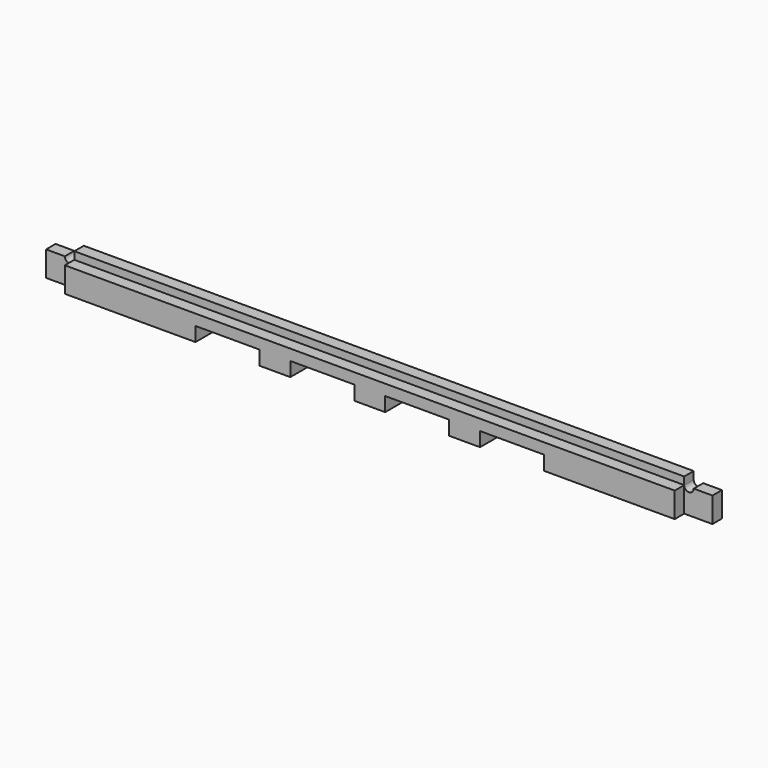
from build123d import *

# Parameters (mm, degrees)
F1_DEPTH = 5
F0_W     = 128.6
F0_H     = 1.6
F2_DEPTH = 2.5
F3_W     = 2
F3_H     = 2
F4_DEPTH = 2
F5_W     = 2
F5_H     = 2
F6_DEPTH = 2


with BuildPart() as f1:
    # F0 (on Front) → F1 (new body)
    with BuildSketch(Plane.XZ):
        Polygon((64.3, 0.177778), (64.3, 5.477778), (-64.3, 5.477778), (-64.3, 0.177778), (-36.75, 0.177778), (-36.75, 3.177778), (-23.25, 3.177778), (-23.25, 0.177778), (-16.75, 0.177778), (-16.75, 3.177778), (-3.25, 3.177778), (-3.25, 0.177778), (3.25, 0.177778), (3.25, 3.177778), (16.75, 3.177778), (16.75, 0.177778), (23.25, 0.177778), (23.25, 3.177778), (36.75, 3.177778), (36.75, 0.177778), align=None)
    extrude(amount=F1_DEPTH)

    # F0 (on Front) → F2 (join)
    with BuildSketch(Plane.XZ):
        with BuildLine():
            Line((-64.3, 0.177778), (-64.3, 5.477778))
            ThreePointArc((-64.3, 5.477778), (-65.3, 4.477778), (-66.3, 5.477778))
            Line((-66.3, 5.477778), (-70.25, 5.477778))
            Line((-70.25, 5.477778), (-70.25, 0.177778))
            Line((-70.25, 0.177778), (-64.3, 0.177778))
        make_face()
        with Locations((0, 6.277778)):
            Rectangle(F0_W, F0_H)
        with BuildLine():
            ThreePointArc((66.3, 5.477778), (65.3, 4.477778), (64.3, 5.477778))
            Line((64.3, 5.477778), (64.3, 0.177778))
            Line((64.3, 0.177778), (70.25, 0.177778))
            Line((70.25, 0.177778), (70.25, 5.477778))
            Line((70.25, 5.477778), (66.3, 5.477778))
        make_face()
    extrude(amount=F2_DEPTH)

    # F3 (on face) → F4 (cut)
    with BuildSketch(Plane(origin=(0, 0, 0.177778), x_dir=(1, 0, 0), z_dir=(0, 0, -1))):
        with Locations((50.525, 2.5)):
            Rectangle(F3_W, F3_H)
    extrude(amount=-F4_DEPTH, mode=Mode.SUBTRACT)

    # F5 (on face) → F6 (cut)
    with BuildSketch(Plane(origin=(0, 0, 0.177778), x_dir=(1, 0, 0), z_dir=(0, 0, -1))):
        with Locations((-50.525, 2.5)):
            Rectangle(F5_W, F5_H)
    extrude(amount=-F6_DEPTH, mode=Mode.SUBTRACT)


solid = f1.part
